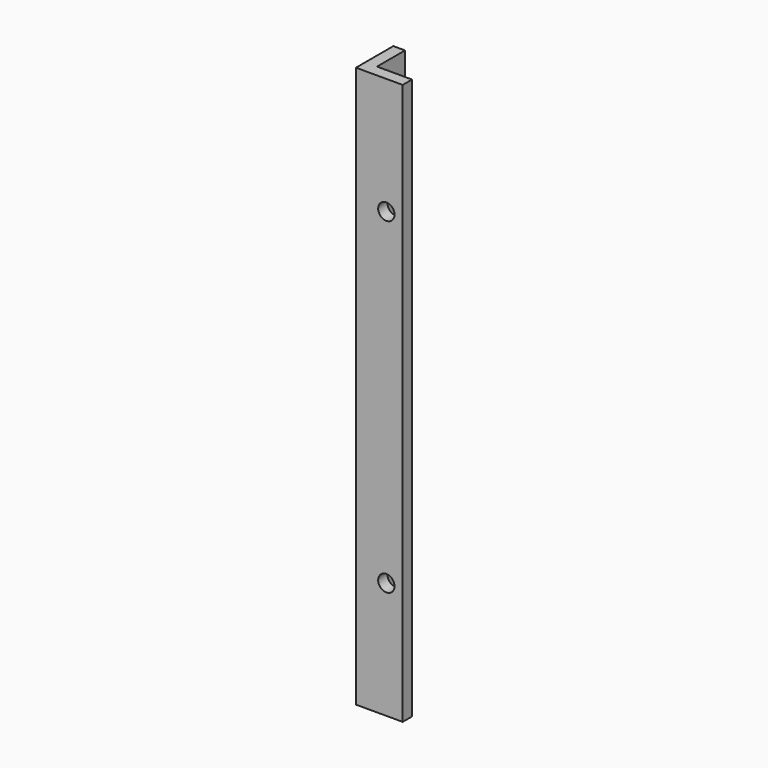
from build123d import *

# Parameters (mm, degrees)
F1_DEPTH = 152.4
F2_R     = 4.445
F3_DEPTH = 25.4


with BuildPart() as f1:
    # F0 (on Top) → F1 (new body, symmetric)
    with BuildSketch(Plane.XY):
        Polygon((-25.4, 0), (0, 0), (0, 6.35), (-19.05, 6.35), (-19.05, 25.4), (-25.4, 25.4), align=None)
    extrude(amount=F1_DEPTH, both=True)

    # F2 (on face) → F3 (cut)
    with BuildSketch(Plane.XZ):
        with Locations((-8.89, 88.9)):
            Circle(F2_R)
        with Locations((-8.89, -88.9)):
            Circle(F2_R)
    extrude(amount=-F3_DEPTH, mode=Mode.SUBTRACT)


solid = f1.part
